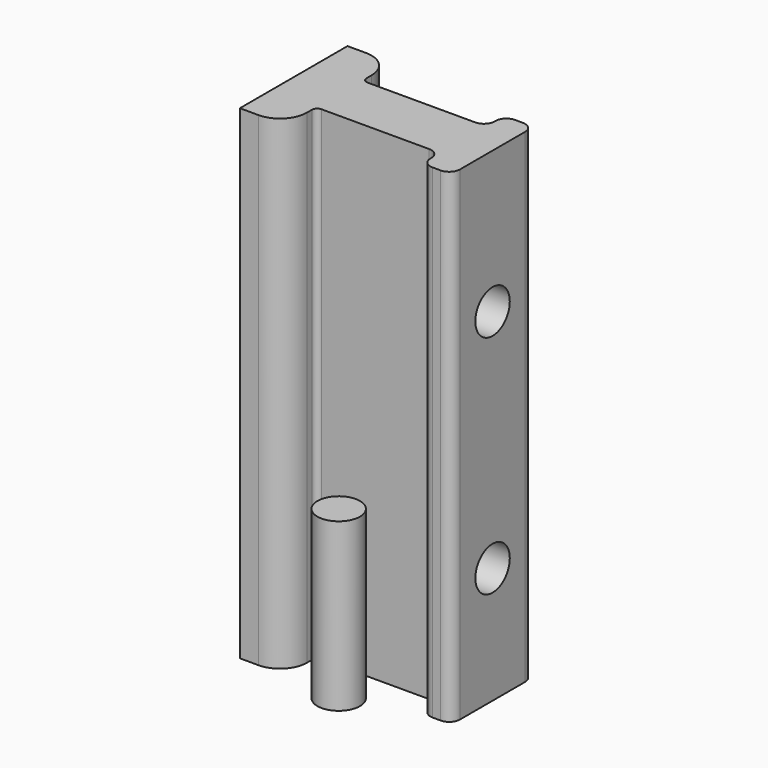
from build123d import *

# Parameters (mm, degrees)
F1_DEPTH = 90
F2_DEPTH = 90
F3_R     = 1.5
F4_DEPTH = 54
F3_R_2   = 4
F5_DEPTH = 32
F6_R     = 3.95
F7_DEPTH = 31


with BuildPart() as f1:
    # F0 (on Top) → F1 (new body)
    with BuildSketch(Plane.XY):
        with BuildLine():
            Line((-32.1680851899, 16.2151374258), (-32.1680851899, -8.7848625742))
            Line((-32.1680851899, -8.7848625742), (-28.7031954581, -8.7848625742))
            ThreePointArc((-28.7031954581, -8.7848625742), (-25.1676615522, -7.3203964801), (-23.7031954581, -3.7848625742))
            Line((-23.7031954581, -3.7848625742), (-23.7031954581, -2.6450291778))
            ThreePointArc((-23.7031954581, -2.6450291778), (-23.4103022393, -1.9379223966), (-22.7031954581, -1.6450291778))
            Line((-22.7031954581, -1.6450291778), (-2.7031954581, -1.6450291778))
            ThreePointArc((-2.7031954581, -1.6450291778), (-1.2889818958, -2.2308156154), (-0.7031954581, -3.6450291778))
            Line((-0.7031954581, -3.6450291778), (-0.7031954581, -3.8504671592))
            ThreePointArc((-0.7031954581, -3.8504671592), (-0.1174090205, -5.2646807216), (1.2968045419, -5.8504671592))
            Line((1.2968045419, -5.8504671592), (2.7889119339, -5.8504671592))
            ThreePointArc((2.7889119339, -5.8504671592), (4.2031254963, -5.2646807216), (4.7889119339, -3.8504671592))
            Line((4.7889119339, -3.8504671592), (4.7889119339, 3.7151374258))
            Line((4.7889119339, 3.7151374258), (4.7889119339, 11.2807420108))
            ThreePointArc((4.7889119339, 11.2807420108), (4.2031254963, 12.6949555732), (2.7889119339, 13.2807420108))
            Line((2.7889119339, 13.2807420108), (1.2968045419, 13.2807420108))
            ThreePointArc((1.2968045419, 13.2807420108), (-0.1174090205, 12.6949555732), (-0.7031954581, 11.2807420108))
            Line((-0.7031954581, 11.2807420108), (-0.7031954581, 11.0753040294))
            ThreePointArc((-0.7031954581, 11.0753040294), (-1.2889818958, 9.661090467), (-2.7031954581, 9.0753040294))
            Line((-2.7031954581, 9.0753040294), (-22.7031954581, 9.0753040294))
            ThreePointArc((-22.7031954581, 9.0753040294), (-23.4103022393, 9.3681972482), (-23.7031954581, 10.0753040294))
            Line((-23.7031954581, 10.0753040294), (-23.7031954581, 11.2151374258))
            ThreePointArc((-23.7031954581, 11.2151374258), (-25.1676615522, 14.7506713317), (-28.7031954581, 16.2151374258))
            Line((-28.7031954581, 16.2151374258), (-32.1680851899, 16.2151374258))
        make_face()
    extrude(amount=F1_DEPTH)

    # F0 (on Top) → F2 (join)
    with BuildSketch(Plane.XY):
        with BuildLine():
            Line((-32.1680851899, 16.2151374258), (-32.1680851899, -8.7848625742))
            Line((-32.1680851899, -8.7848625742), (-28.7031954581, -8.7848625742))
            ThreePointArc((-28.7031954581, -8.7848625742), (-25.1676615522, -7.3203964801), (-23.7031954581, -3.7848625742))
            Line((-23.7031954581, -3.7848625742), (-23.7031954581, -2.6450291778))
            ThreePointArc((-23.7031954581, -2.6450291778), (-23.4103022393, -1.9379223966), (-22.7031954581, -1.6450291778))
            Line((-22.7031954581, -1.6450291778), (-2.7031954581, -1.6450291778))
            ThreePointArc((-2.7031954581, -1.6450291778), (-1.2889818958, -2.2308156154), (-0.7031954581, -3.6450291778))
            Line((-0.7031954581, -3.6450291778), (-0.7031954581, -3.8504671592))
            ThreePointArc((-0.7031954581, -3.8504671592), (-0.1174090205, -5.2646807216), (1.2968045419, -5.8504671592))
            Line((1.2968045419, -5.8504671592), (2.7889119339, -5.8504671592))
            ThreePointArc((2.7889119339, -5.8504671592), (4.2031254963, -5.2646807216), (4.7889119339, -3.8504671592))
            Line((4.7889119339, -3.8504671592), (4.7889119339, 3.7151374258))
            Line((4.7889119339, 3.7151374258), (4.7889119339, 11.2807420108))
            ThreePointArc((4.7889119339, 11.2807420108), (4.2031254963, 12.6949555732), (2.7889119339, 13.2807420108))
            Line((2.7889119339, 13.2807420108), (1.2968045419, 13.2807420108))
            ThreePointArc((1.2968045419, 13.2807420108), (-0.1174090205, 12.6949555732), (-0.7031954581, 11.2807420108))
            Line((-0.7031954581, 11.2807420108), (-0.7031954581, 11.0753040294))
            ThreePointArc((-0.7031954581, 11.0753040294), (-1.2889818958, 9.661090467), (-2.7031954581, 9.0753040294))
            Line((-2.7031954581, 9.0753040294), (-22.7031954581, 9.0753040294))
            ThreePointArc((-22.7031954581, 9.0753040294), (-23.4103022393, 9.3681972482), (-23.7031954581, 10.0753040294))
            Line((-23.7031954581, 10.0753040294), (-23.7031954581, 11.2151374258))
            ThreePointArc((-23.7031954581, 11.2151374258), (-25.1676615522, 14.7506713317), (-28.7031954581, 16.2151374258))
            Line((-28.7031954581, 16.2151374258), (-32.1680851899, 16.2151374258))
        make_face()
    extrude(amount=F2_DEPTH)

    # F3 (on face) → F4 (cut)
    with BuildSketch(Plane.YZ.offset(4.7889119339)):
        with Locations((3.7151374258, 63.6780038476)):
            Circle(F3_R)
        with Locations((3.7151374258, 21.6780038476)):
            Circle(F3_R)
    extrude(amount=-F4_DEPTH, mode=Mode.SUBTRACT)

    # F3 (on face) → F5 (cut)
    with BuildSketch(Plane.YZ.offset(4.7889119339)):
        with Locations((3.7151374258, 63.6780038476)):
            Circle(F3_R_2)
        with Locations((3.7151374258, 63.6780038476)):
            Circle(F3_R, mode=Mode.SUBTRACT)
        with Locations((3.7151374258, 21.6780038476)):
            Circle(F3_R_2)
        with Locations((3.7151374258, 21.6780038476)):
            Circle(F3_R, mode=Mode.SUBTRACT)
    extrude(amount=-F5_DEPTH, mode=Mode.SUBTRACT)


with BuildPart() as f7:
    # F6 (on Top) → F7 (new body)
    with BuildSketch(Plane.XY):
        with Locations((-13.424689777, 15.7366154087)):
            Circle(F6_R)
    extrude(amount=F7_DEPTH)


with BuildPart() as f7b:
    # F6 (on Top) → F7, piece 2 (new body)
    with BuildSketch(Plane.XY):
        with Locations((-13.1259629732, -9.630020947)):
            Circle(F6_R)
    extrude(amount=F7_DEPTH)


solid = Compound([f1.part, f7.part, f7b.part])
